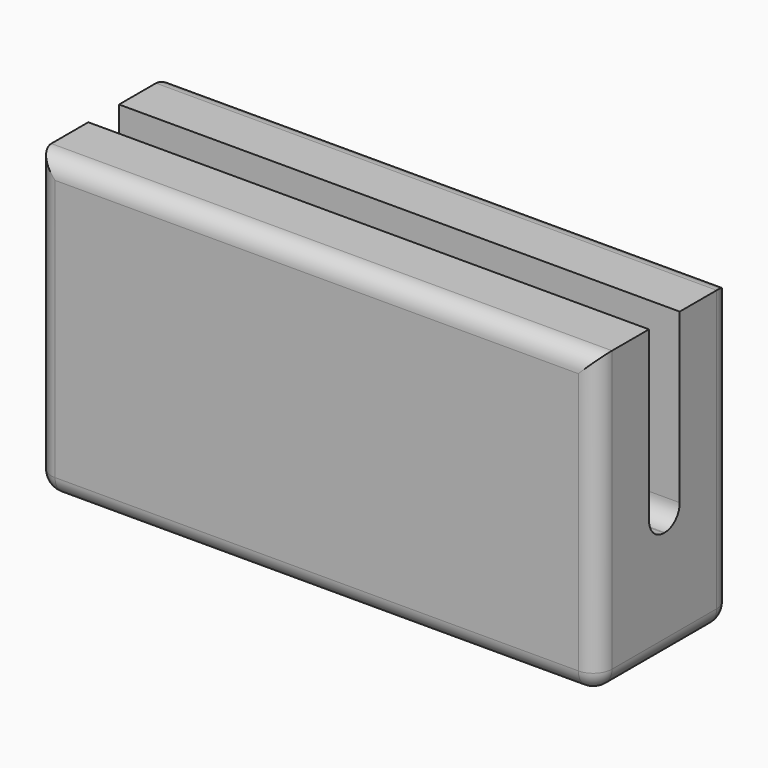
from build123d import *

# Parameters (mm, degrees)
F0_W     = 30
F0_H     = 9
F1_DEPTH = 16
F2_W     = 30
F2_H     = 2.056142
F3_DEPTH = 10
F4_R     = 1
F5_R     = 1


with BuildPart() as f1:
    # F0 (on Top) → F1 (new body)
    with BuildSketch(Plane.XY):
        Rectangle(F0_W, F0_H)
    extrude(amount=F1_DEPTH)

    # F2 (on face) → F3 (cut)
    with BuildSketch(Plane.XY.offset(16)):
        Rectangle(F2_W, F2_H)
    extrude(amount=-F3_DEPTH, mode=Mode.SUBTRACT)

    # F4
    f4_edges = [f1.edges().sort_by_distance(p)[0] for p in [
        (0, -1.028071, 6),
        (0, 1.028071, 6),
    ]]
    fillet(f4_edges, radius=F4_R)

    # F5
    f5_edges = [f1.edges().sort_by_distance(p)[0] for p in [
        (0, 4.5, 16),
        (0, -4.5, 16),
        (0, 4.5, 0),
        (0, -4.5, 0),
        (15, 0, 0),
        (15, -4.5, 8),
        (15, 4.5, 8),
        (-15, 4.5, 8),
        (-15, 0, 0),
        (-15, -4.5, 8),
    ]]
    fillet(f5_edges, radius=F5_R)


solid = f1.part
